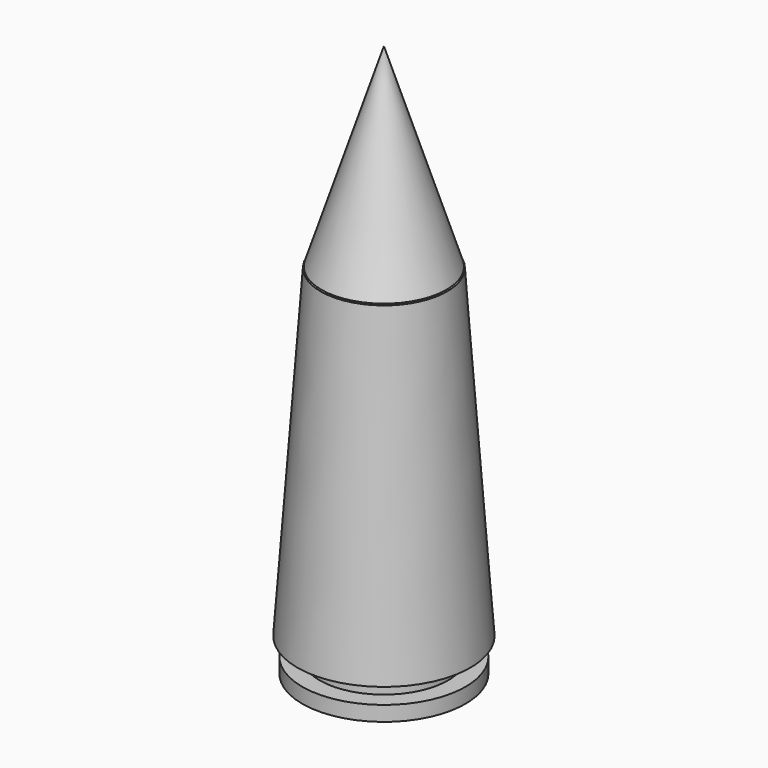
from build123d import *


with BuildPart() as f1:
    # F0 (on Front) → F1 (revolve)
    with BuildSketch(Plane.XZ):
        Polygon((-17.583473, 0), (0, 0), (0, 11.340819), (-10.09552, 11.340819), (-10.09552, 76.635471), (-13.629792, 76.888673), (-18.623915, 7.179051), (-13.83788, 7.179051), (-13.83788, 3.225371), (-17.583473, 3.225371), align=None)
    revolve(axis=Axis((0, 0, 5.67041), (0, 0, -1)))


with BuildPart() as f3:
    # F2 (on Front) → F3 (revolve)
    with BuildSketch(Plane.XZ):
        Polygon((0, 118.968152), (-13.482357, 77.1624), (0, 77.1624), align=None)
    revolve(axis=Axis((0, 0, 98.065276), (0, 0, -1)))


solid = Compound([f1.part, f3.part])
